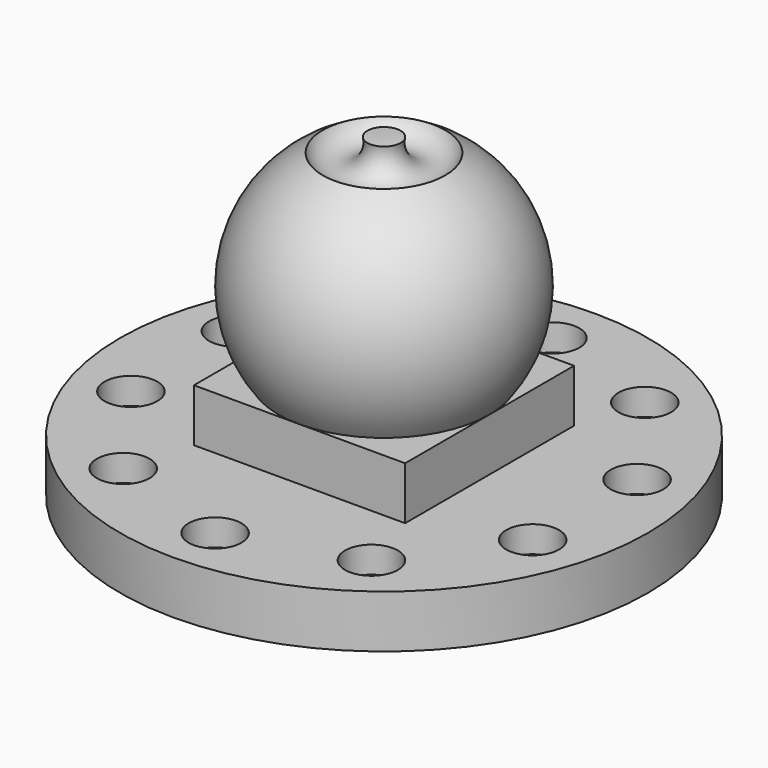
from build123d import *

# Parameters (mm, degrees)
SKETCH_R           = 50
PAD_DEPTH          = 10
SKETCH001_R        = 5
POCKET_DEPTH       = 5
POLARPATTERN_COUNT = 10
SKETCH002_W        = 40
SKETCH002_H        = 40
PAD001_DEPTH       = 10
SKETCH004_R        = 4.452809


with BuildPart() as part:
    # Sketch → Pad (new body)
    with BuildSketch(Plane.XY):
        Circle(SKETCH_R)
    extrude(amount=PAD_DEPTH)

    # Sketch001 (on Face3 of Pad) → Pocket (cut)
    with BuildSketch(Plane.XY.offset(10)):
        with Locations((0, 40)):
            Circle(SKETCH001_R)
    pocket = extrude(amount=-POCKET_DEPTH, mode=Mode.SUBTRACT)

    # PolarPattern: Pocket ×10 about axis
    polarpattern_axis = Axis((0, 0, 0), (0, 0, 1))
    for i in range(1, POLARPATTERN_COUNT):
        add(pocket.rotate(polarpattern_axis, i * 360 / POLARPATTERN_COUNT), mode=Mode.SUBTRACT)

    # Sketch002 (on Face3 of PolarPattern) → Pad001 (join)
    with BuildSketch(Plane.XY.offset(10)):
        Rectangle(SKETCH002_W, SKETCH002_H)
    extrude(amount=PAD001_DEPTH)

    # Sketch003 → Revolution (revolve)
    with BuildSketch(Plane.XZ):
        with BuildLine():
            ThreePointArc((0, 10), (25, 35), (0, 60))
            Line((0, 60), (0, 10))
        make_face()
    revolve(axis=Axis((0, 0, 0), (0, 0, 1)))

    # Sketch004 → Groove (revolve, cut)
    with BuildSketch(Plane.XZ):
        with Locations((7.491299, 58.851215)):
            Circle(SKETCH004_R)
    revolve(axis=Axis((0, 0, 0), (0, 0, 1)), mode=Mode.SUBTRACT)


solid = part.part
